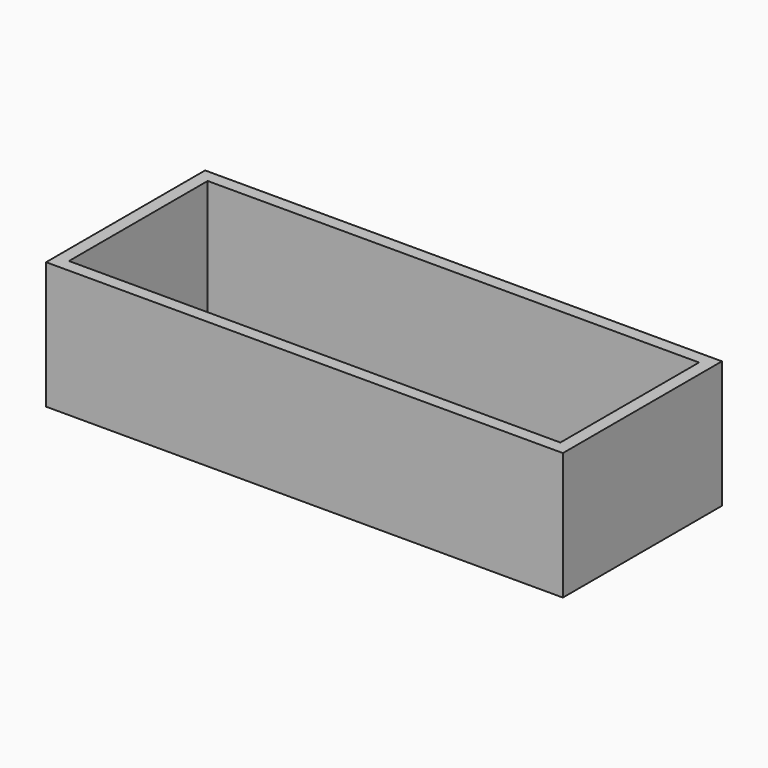
from build123d import *

# Parameters (mm, degrees)
F0_W     = 165.1
F0_H     = 38.1
F1_DEPTH = 63.5
F2_W     = 156.972
F2_H     = 55.372
F3_DEPTH = 46.736
F4_W     = 165.1
F4_H     = 63.5
F5_DEPTH = 2.54


with BuildPart() as f1:
    # F0 (on Front) → F1 (new body)
    with BuildSketch(Plane.XZ):
        Rectangle(F0_W, F0_H)
    extrude(amount=F1_DEPTH)

    # F2 (on face) → F3 (cut)
    with BuildSketch(Plane.XY.offset(19.05)):
        with Locations((0, -31.75)):
            Rectangle(F2_W, F2_H)
    extrude(amount=-F3_DEPTH, mode=Mode.SUBTRACT)

    # F4 (on face) → F5 (join)
    with BuildSketch(Plane(origin=(0, 0, -19.05), x_dir=(1, 0, 0), z_dir=(0, 0, -1))):
        with Locations((0, 31.75)):
            Rectangle(F4_W, F4_H)
        with Locations((0, 31.75)):
            Rectangle(F4_W, F4_H)
    extrude(amount=F5_DEPTH)


solid = f1.part
